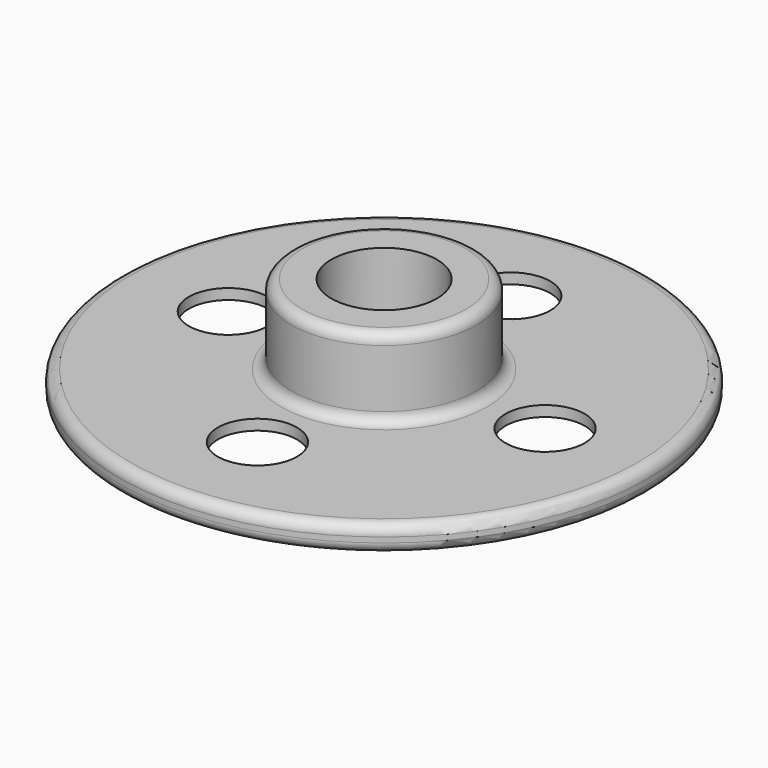
from build123d import *

# Parameters (mm, degrees)
SKETCH_R      = 50
SKETCH_R_2    = 7.5
SKETCH_R_3    = 10
PAD_DEPTH     = 5
SKETCH001_R   = 17.5
SKETCH001_R_2 = 10
PAD001_DEPTH  = 15
SKETCH002_R   = 45
POCKET_DEPTH  = 3
FILLET_R      = 2


with BuildPart() as part:
    # Sketch (on XY_Plane of Origin) → Pad (new body)
    with BuildSketch(Plane.XY):
        Circle(SKETCH_R)
        with Locations((0, 29.995833)):
            Circle(SKETCH_R_2, mode=Mode.SUBTRACT)
        with Locations((-29.5, 0)):
            Circle(SKETCH_R_2, mode=Mode.SUBTRACT)
        with Locations((30.5, 0)):
            Circle(SKETCH_R_2, mode=Mode.SUBTRACT)
        with Locations((0, -29.995833)):
            Circle(SKETCH_R_2, mode=Mode.SUBTRACT)
        Circle(SKETCH_R_3, mode=Mode.SUBTRACT)
    extrude(amount=PAD_DEPTH)

    # Sketch001 (on Face8 of Pad) → Pad001 (join)
    with BuildSketch(Plane.XY.offset(5)):
        Circle(SKETCH001_R)
        Circle(SKETCH001_R_2, mode=Mode.SUBTRACT)
    extrude(amount=PAD001_DEPTH)

    # Sketch002 (on Face2 of Pad001) → Pocket (cut)
    with BuildSketch(Plane(origin=(0, 0, 0), x_dir=(1, 0, 0), z_dir=(0, 0, -1))):
        Circle(SKETCH002_R)
    extrude(amount=-POCKET_DEPTH, mode=Mode.SUBTRACT)

    # Fillet
    fillet_edges = [part.edges().sort_by_distance(p)[0] for p in [
        (-17.5, 0, 20),
        (-17.5, 0, 5),
        (-50, 0, 5),
        (-50, 0, 0),
    ]]
    fillet(fillet_edges, radius=FILLET_R)


solid = part.part
